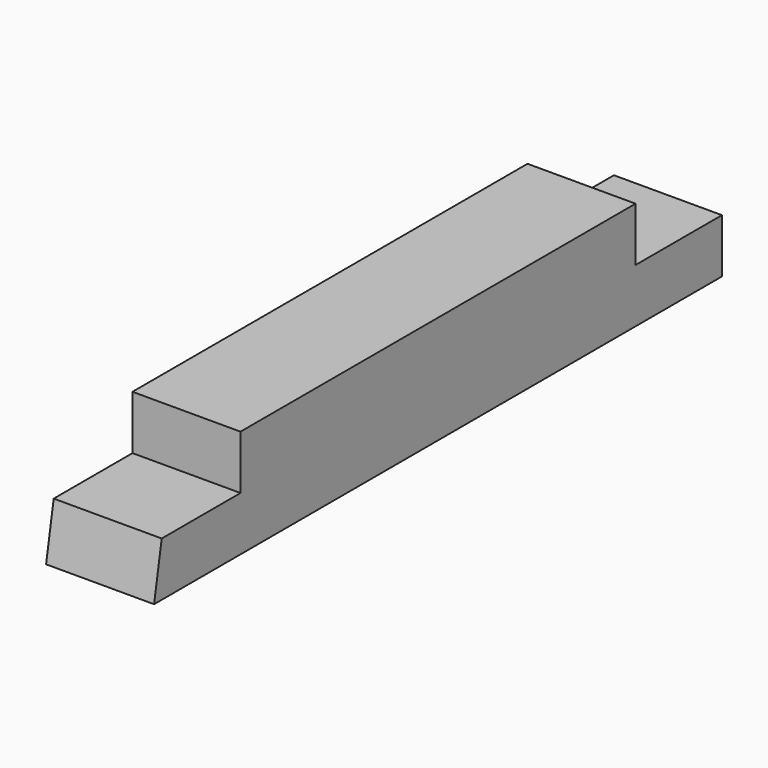
from build123d import *

# Parameters (mm, degrees)
F0_W     = 88.9
F0_H     = 88.9
F1_DEPTH = 584.2
F2_W     = 88.9
F2_H     = 44.45
F3_DEPTH = 88.901
F5_DEPTH = 88.901


with BuildPart() as f1:
    # F0 (on Front) → F1 (new body)
    with BuildSketch(Plane.XZ):
        Rectangle(F0_W, F0_H)
    extrude(amount=-F1_DEPTH)

    # F2 (on face) → F3 (cut, through all)
    with BuildSketch(Plane.YZ.offset(44.45)):
        with Locations((44.45, 22.225)):
            Rectangle(F2_W, F2_H)
        with Locations((539.75, 22.225)):
            Rectangle(F2_W, F2_H)
    extrude(amount=-F3_DEPTH, mode=Mode.SUBTRACT)

    # F4 (on face) → F5 (cut, through all)
    with BuildSketch(Plane.YZ.offset(44.45)):
        Polygon((0, 0), (0, -44.45), (7.837734, 0), align=None)
    extrude(amount=-F5_DEPTH, mode=Mode.SUBTRACT)


solid = f1.part
